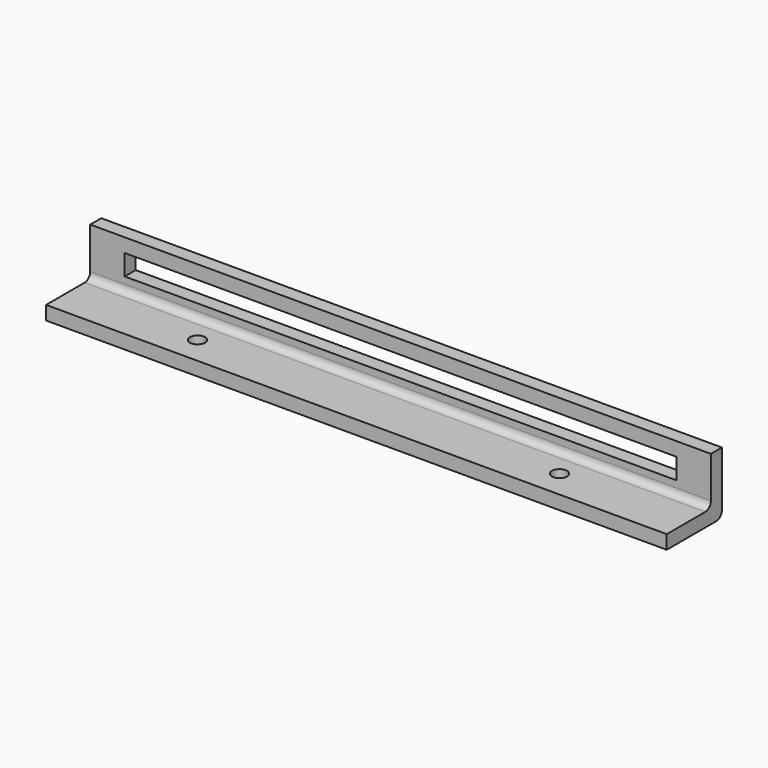
from build123d import *

# Parameters (mm, degrees)
F0_W     = 90
F0_H     = 10
F0_R     = 1.1
F1_DEPTH = 2
F2_W     = 90
F2_H     = 2
F3_DEPTH = 7
F4_R     = 1
F5_W     = 80
F5_H     = 3
F6_DEPTH = 2


with BuildPart() as f1:
    # F0 (on Top) → F1 (new body)
    with BuildSketch(Plane.XY):
        Rectangle(F0_W, F0_H)
        with Locations((-26.25, -1)):
            Circle(F0_R, mode=Mode.SUBTRACT)
        with Locations((26.25, -1)):
            Circle(F0_R, mode=Mode.SUBTRACT)
    extrude(amount=F1_DEPTH)

    # F2 (on face) → F3 (join)
    with BuildSketch(Plane.XY.offset(2)):
        with Locations((0, 4)):
            Rectangle(F2_W, F2_H)
    extrude(amount=F3_DEPTH)

    # F4
    f4_edges = [f1.edges().sort_by_distance(p)[0] for p in [
        (0, 5, 0),
        (0, 3, 2),
    ]]
    fillet(f4_edges, radius=F4_R)

    # F5 (on face) → F6 (cut)
    with BuildSketch(Plane.XZ.offset(-3)):
        with Locations((0, 5.5)):
            Rectangle(F5_W, F5_H)
    extrude(amount=-F6_DEPTH, mode=Mode.SUBTRACT)


solid = f1.part
